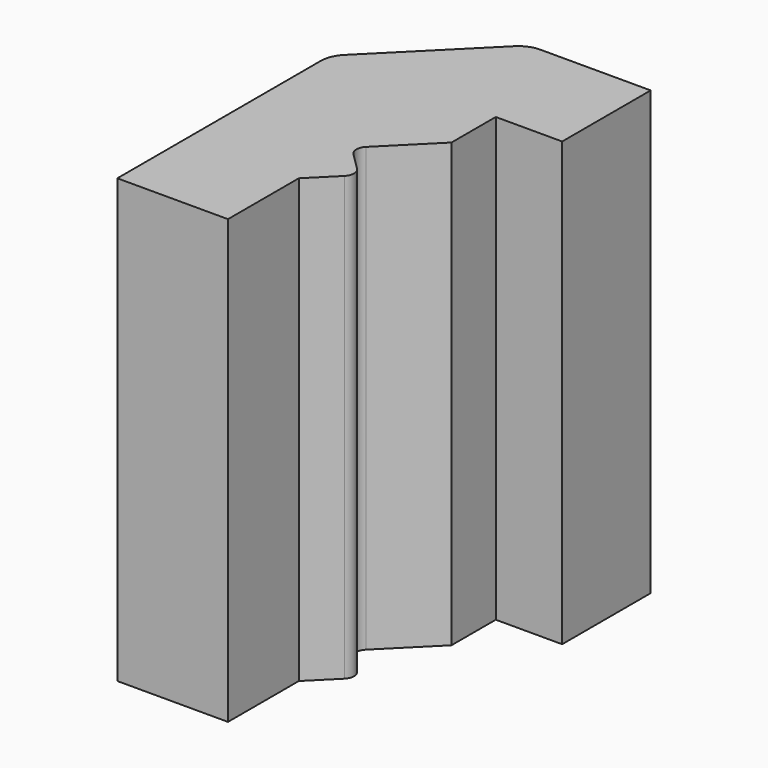
from build123d import *

# Parameters (mm, degrees)
F0_W     = 10
F0_H     = 10
F1_DEPTH = 80
F2_R     = 2
F3_R     = 2
F4_SIZE  = 20
F5_W     = 25
F5_H     = 38
F6_DEPTH = 15
F7_R     = 3
F8_R     = 5


with BuildPart() as f1:
    # F0 (on Top) → F1 (new body)
    with BuildSketch(Plane.XY):
        Polygon((-57.7475710213, 35.1921368795), (-57.7475710213, 15.1921368795), (-37.7475710213, 15.1921368795), (-27.7475710213, 15.1921368795), (-15.7475710213, 15.1921368795), (-15.7475710213, 35.1921368795), align=None)
        Polygon((-37.7475710213, 15.1921368795), (-57.7475710213, 15.1921368795), (-57.7475710213, -32.8078631205), (-37.7475710213, -32.8078631205), (-37.7475710213, -16.8078631205), (-37.7475710213, -4.8078631205), (-37.7475710213, 5.1921368795), align=None)
        with Locations((-32.7475710213, 10.1921368795)):
            Rectangle(F0_W, F0_H)
        Polygon((-27.7475710213, 5.1921368795), (-37.7475710213, 5.1921368795), (-37.7475710213, -4.8078631205), align=None)
        Polygon((-31.7475710213, -10.8078631205), (-37.7475710213, -4.8078631205), (-37.7475710213, -16.8078631205), align=None)
    extrude(amount=F1_DEPTH)

    # F2
    f2_edges = [f1.edges().sort_by_distance(p)[0] for p in [
        (-31.747571, -10.807863, 40),
    ]]
    fillet(f2_edges, radius=F2_R)

    # F3
    f3_edges = [f1.edges().sort_by_distance(p)[0] for p in [
        (-37.747571, -4.807863, 40),
    ]]
    fillet(f3_edges, radius=F3_R)

    # F4
    f4_edges = [f1.edges().sort_by_distance(p)[0] for p in [
        (-57.747571, 35.192137, 40),
    ]]
    chamfer(f4_edges, length=F4_SIZE)

    # F5 (on face) → F6 (cut)
    with BuildSketch(Plane(origin=(-57.7475710213, 0, 0), x_dir=(0, -1, 0), z_dir=(-1, 0, 0))):
        with Locations((10.8078631205, 40)):
            Rectangle(F5_W, F5_H)
    extrude(amount=-F6_DEPTH, mode=Mode.SUBTRACT)

    # F7
    f7_edges = [f1.edges().sort_by_distance(p)[0] for p in [
        (-50.247571, 1.692137, 21),
        (-50.247571, 1.692137, 59),
        (-50.247571, -23.307863, 59),
        (-50.247571, -23.307863, 21),
    ]]
    fillet(f7_edges, radius=F7_R)

    # F8
    f8_edges = [f1.edges().sort_by_distance(p)[0] for p in [
        (-37.747571, 35.192137, 40),
        (-57.747571, 15.192137, 40),
    ]]
    fillet(f8_edges, radius=F8_R)


solid = f1.part
